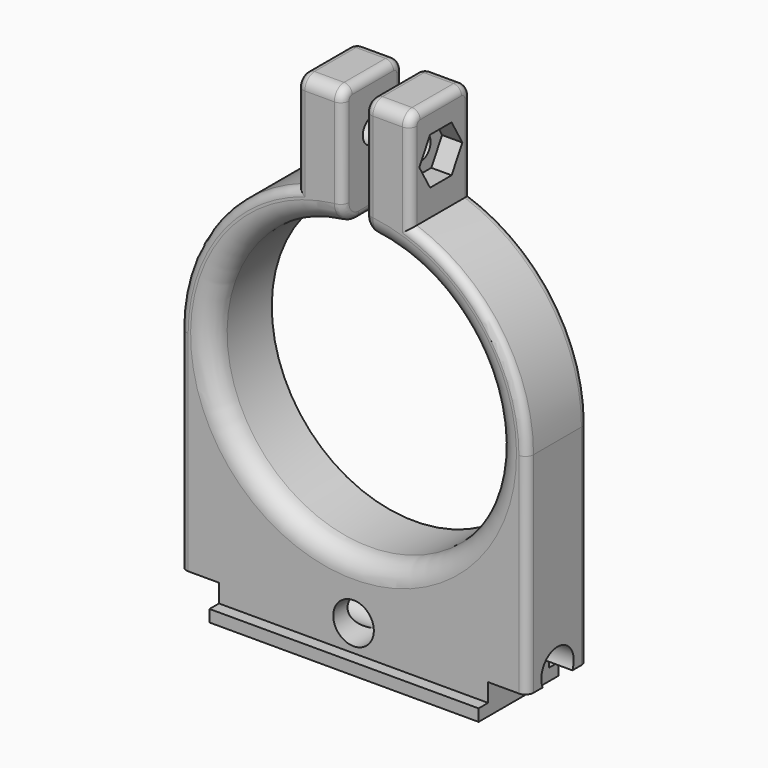
from build123d import *

# Parameters (mm, degrees)
F0_W      = 66.3
F0_H      = 24.6
F1_DEPTH  = 2.94
F2_W      = 66.3
F2_H      = 18.75
F3_DEPTH  = 4.5
F5_DEPTH  = 18.75
F7_DEPTH  = 5
F9_DEPTH  = 5
F10_R     = 3.1
F11_DEPTH = 51.751
F12_R     = 5
F13_DEPTH = 21.676
F14_R     = 5
F15_DEPTH = 85.501
F16_R     = 5
F17_R     = 3
F18_R     = 2


with BuildPart() as f1:
    # F0 (on Top) → F1 (new body)
    with BuildSketch(Plane.XY):
        Rectangle(F0_W, F0_H)
    extrude(amount=F1_DEPTH)

    # F2 (on face) → F3 (join)
    with BuildSketch(Plane.XY.offset(2.94)):
        Rectangle(F2_W, F2_H)
    extrude(amount=F3_DEPTH)

    # F4 (on face) → F5 (join, through all)
    with BuildSketch(Plane.XZ.offset(9.375)):
        with BuildLine():
            ThreePointArc((2.75, 94.13226), (0, 23.94), (-2.75, 94.13226))
            Line((-2.75, 94.13226), (-2.75, 123.982605))
            Line((-2.75, 123.982605), (-14, 123.982605))
            Line((-14, 123.982605), (-14, 99.482605))
            ThreePointArc((-14, 99.482605), (-34.828598, 83.879741), (-42.75, 59.09))
            Line((-42.75, 59.09), (-42.75, 7.44))
            Line((-42.75, 7.44), (42.75, 7.44))
            Line((42.75, 7.44), (42.75, 59.09))
            ThreePointArc((42.75, 59.09), (34.828598, 83.879741), (14, 99.482605))
            Line((14, 99.482605), (14, 123.982605))
            Line((14, 123.982605), (2.75, 123.982605))
            Line((2.75, 123.982605), (2.75, 94.13226))
        make_face()
    extrude(amount=-F5_DEPTH)

    # F6 (on face) → F7 (cut)
    with BuildSketch(Plane(origin=(-14, 0, 0), x_dir=(0, -1, 0), z_dir=(-1, 0, 0))):
        Polygon((-3.319764, 105.982605), (3.319764, 105.982605), (6.639528, 111.732605), (3.319764, 117.482605), (-3.319764, 117.482605), (-6.639528, 111.732605), align=None)
    extrude(amount=-F7_DEPTH, mode=Mode.SUBTRACT)

    # F8 (on face) → F9 (cut)
    with BuildSketch(Plane.YZ.offset(14)):
        Polygon((-6.639528, 111.732605), (-3.319764, 105.982605), (3.319764, 105.982605), (6.639528, 111.732605), (3.319764, 117.482605), (-3.319764, 117.482605), align=None)
    extrude(amount=-F9_DEPTH, mode=Mode.SUBTRACT)

    # F10 (on face) → F11 (cut, through all)
    with BuildSketch(Plane(origin=(-9, 0, 0), x_dir=(0, -1, 0), z_dir=(-1, 0, 0))):
        with Locations((0, 111.732605)):
            Circle(F10_R)
    extrude(amount=-F11_DEPTH, mode=Mode.SUBTRACT)

    # F12 (on face) → F13 (cut, through all)
    with BuildSketch(Plane.XZ.offset(9.375)):
        with Locations((0, 9.44)):
            Circle(F12_R)
    extrude(amount=-F13_DEPTH, mode=Mode.SUBTRACT)

    # F14 (on face) → F15 (cut, through all)
    with BuildSketch(Plane(origin=(-42.75, 0, 0), x_dir=(0, -1, 0), z_dir=(-1, 0, 0))):
        with Locations((0, 9.44)):
            Circle(F14_R)
    extrude(amount=-F15_DEPTH, mode=Mode.SUBTRACT)

    # F16
    f16_edges = [f1.edges().sort_by_distance(p)[0] for p in [
        (0, -9.375, 23.94),
    ]]
    fillet(f16_edges, radius=F16_R)

    # F17
    f17_edges = [f1.edges().sort_by_distance(p)[0] for p in [
        (8.375, -9.375, 123.982605),
        (-8.375, -9.375, 123.982605),
        (8.375, 9.375, 123.982605),
        (-8.375, 9.375, 123.982605),
    ]]
    fillet(f17_edges, radius=F17_R)

    # F18
    f18_edges = [f1.edges().sort_by_distance(p)[0] for p in [
        (42.75, -9.375, 33.265),
        (-42.75, -9.375, 33.265),
        (42.75, 9.375, 33.265),
        (-42.75, 9.375, 33.265),
        (14, -9.375, 110.232605),
        (14, 9.375, 110.232605),
        (-14, -9.375, 110.232605),
        (-14, 9.375, 110.232605),
        (-2.75, 2.5, 94.13226),
        (2.75, 2.5, 94.13226),
        (-2.75, 0, 123.982605),
        (2.75, 0, 123.982605),
    ]]
    fillet(f18_edges, radius=F18_R)


solid = f1.part
